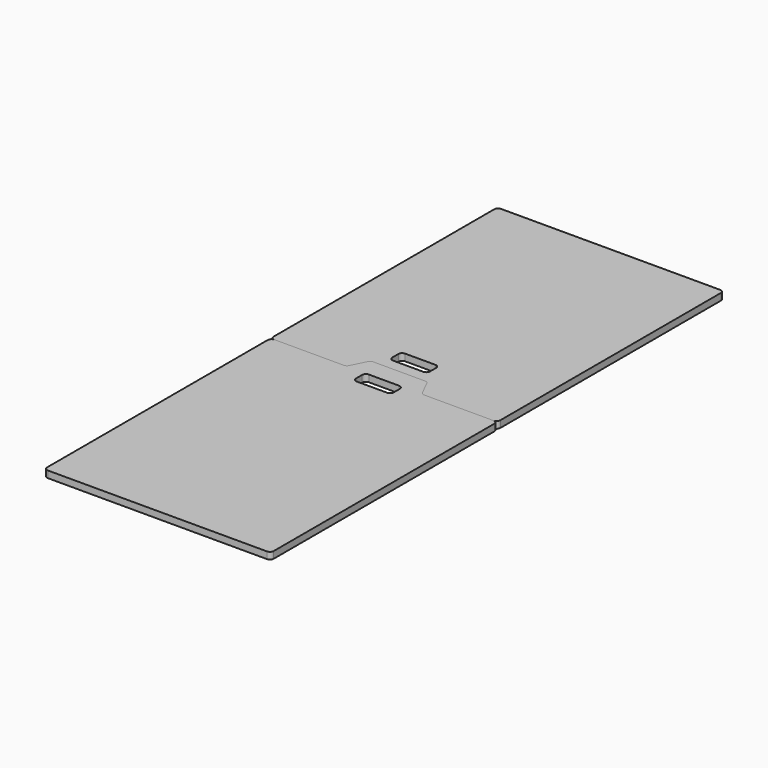
from build123d import *

# Parameters (mm, degrees)
PAD_DEPTH    = 18
FILLET_R     = 10
FILLET001_R  = 10
FILLET002_R  = 10
PAD001_DEPTH = 18
FILLET003_R  = 10


with BuildPart() as body:
    # Sketch → Pad (new body)
    with BuildSketch(Plane.XY):
        Polygon((-300, -375), (300, -375), (300, 375), (100, 375), (75, 425), (-75, 425), (-100, 375), (-300, 375), align=None)
        with BuildLine():
            Line((-50, 365), (-50, 345))
            ThreePointArc((-50, 345), (-47.071068, 337.928932), (-40, 335))
            Line((-40, 335), (40, 335))
            ThreePointArc((40, 335), (47.071068, 337.928932), (50, 345))
            Line((50, 345), (50, 365))
            ThreePointArc((50, 365), (47.071068, 372.071068), (40, 375))
            Line((40, 375), (-40, 375))
            ThreePointArc((-40, 375), (-47.071068, 372.071068), (-50, 365))
        make_face(mode=Mode.SUBTRACT)
    extrude(amount=PAD_DEPTH)

    # Fillet
    fillet_edges = [body.edges().sort_by_distance(p)[0] for p in [
        (-75, 425, 9),
        (75, 425, 9),
    ]]
    fillet(fillet_edges, radius=FILLET_R)

    # Fillet001
    fillet001_edges = [body.edges().sort_by_distance(p)[0] for p in [
        (-100, 375, 9),
        (100, 375, 9),
    ]]
    fillet(fillet001_edges, radius=FILLET001_R)

    # Fillet002
    fillet002_edges = [body.edges().sort_by_distance(p)[0] for p in [
        (300, 375, 9),
        (-300, 375, 9),
        (-300, -375, 9),
        (300, -375, 9),
    ]]
    fillet(fillet002_edges, radius=FILLET002_R)


with BuildPart() as body001:
    # Sketch001 → Pad001 (new body)
    with BuildSketch(Plane.XY):
        Polygon((-300, 375), (-300, 1125), (300, 1125), (300, 375), (100, 375), (75, 425), (-75, 425), (-100, 375), align=None)
        with BuildLine():
            Line((-50, 485), (-50, 465))
            ThreePointArc((-50, 465), (-47.071068, 457.928932), (-40, 455))
            Line((-40, 455), (40, 455))
            ThreePointArc((40, 455), (47.071068, 457.928932), (50, 465))
            Line((50, 465), (50, 485))
            ThreePointArc((50, 485), (47.071068, 492.071068), (40, 495))
            Line((40, 495), (-40, 495))
            ThreePointArc((-40, 495), (-47.071068, 492.071068), (-50, 485))
        make_face(mode=Mode.SUBTRACT)
    extrude(amount=PAD001_DEPTH)

    # Fillet003
    fillet003_edges = [body001.edges().sort_by_distance(p)[0] for p in [
        (-75, 425, 9),
        (-100, 375, 9),
        (75, 425, 9),
        (100, 375, 9),
        (300, 375, 9),
        (300, 1125, 9),
        (-300, 375, 9),
        (-300, 1125, 9),
    ]]
    fillet(fillet003_edges, radius=FILLET003_R)


solid = Compound([body.part, body001.part])
